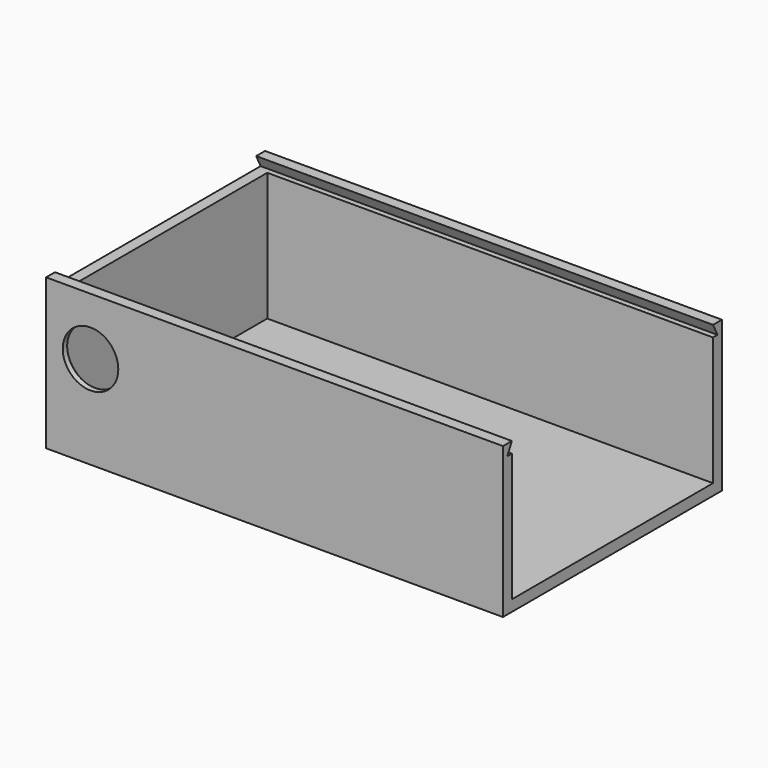
from build123d import *

# Parameters (mm, degrees)
F0_W           = 84.25
F0_H           = 49.28
F1_DEPTH       = 27.1
F2_W           = 80.25
F2_H           = 45.28
F3_DEPTH       = 25.1
F5_DEPTH       = 25
F5_DEPTH_BACK  = 25
F8_D           = 10
F8_DEPTH       = 2
F8_CBORE_D     = 12
F8_CBORE_DEPTH = 1
F9_W           = 4
F9_H           = 45.28
F10_DEPTH      = 2
F12_DEPTH      = 82.25
F13_W          = 49.28
F13_H          = 27.1
F13_W_2        = 18.18
F13_H_2        = 11.31
F14_DEPTH      = 2


with BuildPart() as f1:
    # F0 (on Top) → F1 (new body)
    with BuildSketch(Plane.XY):
        Rectangle(F0_W, F0_H)
    extrude(amount=F1_DEPTH)

    # F2 (on face) → F3 (cut)
    with BuildSketch(Plane.XY.offset(27.1)):
        Rectangle(F2_W, F2_H)
    extrude(amount=-F3_DEPTH, mode=Mode.SUBTRACT)

    # F4 (on face) → F5 (cut, two sides)
    with BuildSketch(Plane(origin=(40.125, 0, 0), x_dir=(0, -1, 0), z_dir=(-1, 0, 0))) as f5_sk:
        Polygon((-4.46, 20.205), (-22.64, 20.205), (-22.64, 14.55), (-22.64, 8.895), (-4.46, 8.895), align=None)
    extrude(amount=-F5_DEPTH, mode=Mode.SUBTRACT)
    extrude(f5_sk.sketch, amount=-F5_DEPTH_BACK, mode=Mode.SUBTRACT)

    # F8
    with Locations(Plane(origin=(0, -22.64, 0), x_dir=(-1, 0, 0), z_dir=(0, 1, 0))):
        with Locations((34.125, 16.76)):
            CounterBoreHole(F8_D / 2, F8_CBORE_D / 2, F8_CBORE_DEPTH, depth=F8_DEPTH)

    # F9 (on face) → F10 (cut)
    with BuildSketch(Plane.XY.offset(27.1)):
        with Locations((-40.125, 0)):
            Rectangle(F9_W, F9_H)
    extrude(amount=-F10_DEPTH, mode=Mode.SUBTRACT)

    # F11 (on face) → F12 (cut)
    with BuildSketch(Plane(origin=(-42.125, 0, 0), x_dir=(0, -1, 0), z_dir=(-1, 0, 0))):
        Polygon((22.64, 27.1), (22.64, 25.1), (23.64, 25.1), align=None)
        Polygon((-22.64, 27.1), (-23.64, 25.1), (-22.64, 25.1), align=None)
    extrude(amount=-F12_DEPTH, mode=Mode.SUBTRACT)

    # F13 (on face) → F14 (cut)
    with BuildSketch(Plane.YZ.offset(42.125)):
        with Locations((0, 13.55)):
            Rectangle(F13_W, F13_H)
        with Locations((13.55, 14.55)):
            Rectangle(F13_W_2, F13_H_2, mode=Mode.SUBTRACT)
    extrude(amount=-F14_DEPTH, mode=Mode.SUBTRACT)


solid = f1.part
